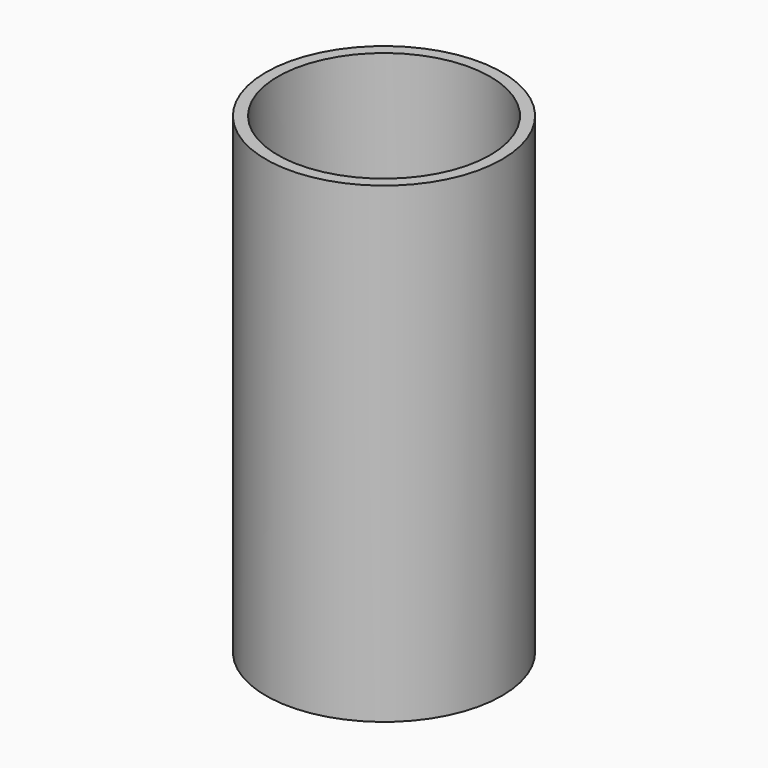
from build123d import *

# Parameters (mm, degrees)
F0_R     = 25.4
F1_DEPTH = 101.6
F2_R     = 22.86
F3_DEPTH = 44.45
F4_R     = 22.86
F5_DEPTH = 44.45
F7_DEPTH = 57.151


with BuildPart() as f1:
    # F0 (on Top) → F1 (new body)
    with BuildSketch(Plane.XY):
        Circle(F0_R)
    extrude(amount=F1_DEPTH)

    # F2 (on face) → F3 (cut)
    with BuildSketch(Plane(origin=(0, 0, 0), x_dir=(1, 0, 0), z_dir=(0, 0, -1))):
        Circle(F2_R)
    extrude(amount=-F3_DEPTH, mode=Mode.SUBTRACT)

    # F4 (on face) → F5 (cut)
    with BuildSketch(Plane.XY.offset(101.6)):
        Circle(F4_R)
    extrude(amount=-F5_DEPTH, mode=Mode.SUBTRACT)

    # F6 (on face) → F7 (cut, through all)
    with BuildSketch(Plane.XY.offset(57.15)):
        Polygon((6.35, 3.666174), (0, 7.332348), (-6.35, 3.666174), (-6.35, -3.666174), (0, -7.332348), (6.35, -3.666174), align=None)
    extrude(amount=-F7_DEPTH, mode=Mode.SUBTRACT)


solid = f1.part
